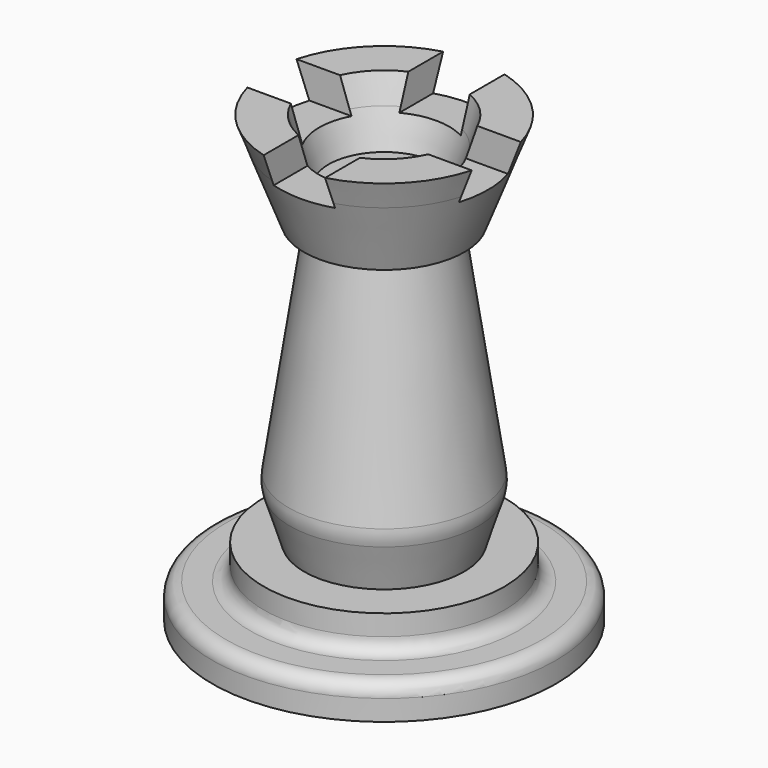
from build123d import *

# Parameters (mm, degrees)
F0_R          = 12.7
F0_R_2        = 8.89
F0_R_3        = 6.35
F0_R_4        = 3.81
F1_DEPTH      = 2.54
F2_DEPTH      = 2.54
F3_R          = 1.016
F7_DEPTH      = 25.4
F7_DEPTH_BACK = 25.4
F9_DEPTH      = 25.4
F9_DEPTH_BACK = 25.4


with BuildPart() as f1:
    # F0 (on Top) → F1 (new body)
    with BuildSketch(Plane.XY):
        Circle(F0_R)
        Circle(F0_R_2, mode=Mode.SUBTRACT)
        Circle(F0_R_2)
        Circle(F0_R_3, mode=Mode.SUBTRACT)
        Circle(F0_R_3)
        Circle(F0_R_4, mode=Mode.SUBTRACT)
        Circle(F0_R_4)
    extrude(amount=-F1_DEPTH)

    # F0 (on Top) → F2 (join)
    with BuildSketch(Plane.XY):
        Circle(F0_R_2)
        Circle(F0_R_3, mode=Mode.SUBTRACT)
        Circle(F0_R_3)
        Circle(F0_R_4, mode=Mode.SUBTRACT)
        Circle(F0_R_4)
    extrude(amount=F2_DEPTH)

    # F3
    f3_edges = [f1.edges().sort_by_distance(p)[0] for p in [
        (-8.89, 0, 0),
        (-12.7, 0, 0),
    ]]
    fillet(f3_edges, radius=F3_R)

    # F4 (on Right) → F5 (revolve)
    with BuildSketch(Plane.YZ):
        with BuildLine():
            ThreePointArc((-7.052727852, 7.0721389887), (-7.0740632783, 6.4527327622), (-6.95464605, 5.8445725864))
            Line((-6.95464605, 5.8445725864), (-5.8483541943, 2.3676548153))
            Line((-5.8483541943, 2.3676548153), (0, 2.3676548153))
            Line((0, 2.3676548153), (0, 21.9140928239))
            Line((0, 21.9140928239), (0, 23.5729362753))
            Line((0, 23.5729362753), (0, 24.7111208737))
            Line((0, 24.7111208737), (0, 24.8141754419))
            Line((0, 24.8141754419), (0, 25.781949982))
            Line((0, 25.781949982), (-4.1019017808, 25.781949982))
            Line((-4.1019017808, 25.781949982), (-4.9252421595, 28.3628571779))
            Line((-4.9252421595, 28.3628571779), (-5.5563063145, 30.341040273))
            Line((-5.5563063145, 30.341040273), (-5.6435932728, 30.341040273))
            Line((-5.6435932728, 30.341040273), (-8.5902156056, 30.341040273))
            Line((-8.5902156056, 30.341040273), (-7.8381793573, 28.3628571779))
            Line((-7.8381793573, 28.3628571779), (-5.9250046527, 23.33037388))
            Line((-5.9250046527, 23.33037388), (-4.647559738, 23.1391453645))
            Line((-4.647559738, 23.1391453645), (-7.052727852, 7.0721389887))
        make_face()
    revolve(axis=Axis((0, 0, 13.5393878445), (0, 0, -1)))

    # F6 (on Front) → F7 (cut, two sides)
    with BuildSketch(Plane.XZ) as f7_sk:
        Polygon((-2.2698096, 28.0051901937), (0, 28.0051901937), (2.2698096, 28.0051901937), (2.2698096, 30.4731242359), (0, 30.4731242359), (-2.2698096, 30.4731242359), align=None)
    extrude(amount=-F7_DEPTH, mode=Mode.SUBTRACT)
    extrude(f7_sk.sketch, amount=F7_DEPTH_BACK, mode=Mode.SUBTRACT)

    # F8 (on Right) → F9 (cut, two sides)
    with BuildSketch(Plane.YZ) as f9_sk:
        Polygon((-2.2698075, 27.955027986), (0, 27.955027986), (2.2698075, 27.955027986), (2.2698075, 31.4495795649), (0, 31.4495795649), (-2.2698075, 31.4495795649), align=None)
    extrude(amount=-F9_DEPTH, mode=Mode.SUBTRACT)
    extrude(f9_sk.sketch, amount=F9_DEPTH_BACK, mode=Mode.SUBTRACT)


solid = f1.part
